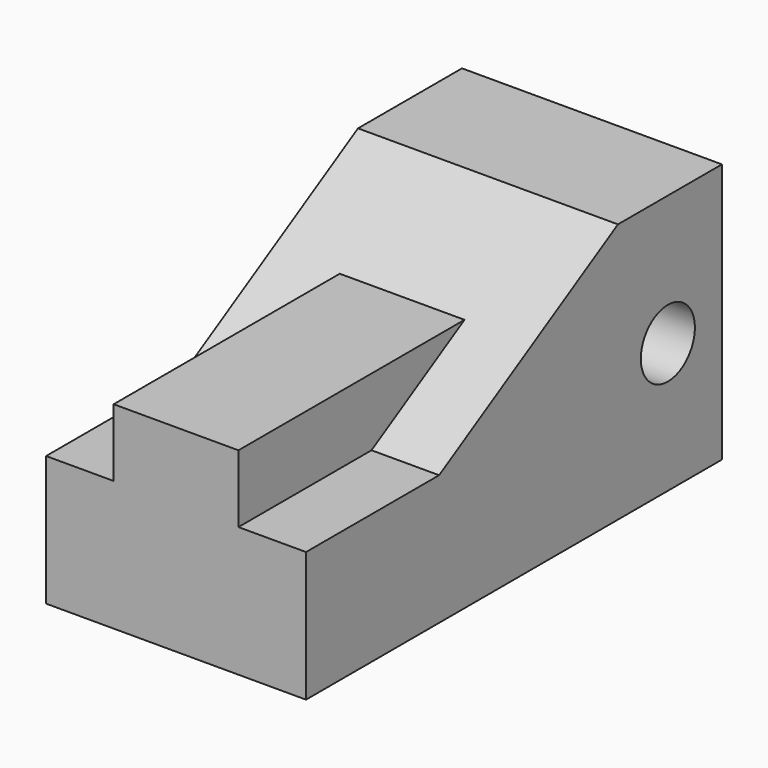
from build123d import *

# Parameters (mm, degrees)
F0_W     = 100
F0_H     = 50
F1_DEPTH = 50
F2_R     = 6.5
F3_DEPTH = 50.001
F4_DEPTH = 13
F7_DEPTH = 13
F9_DEPTH = 25


with BuildPart() as f1:
    # F0 (on Right) → F1 (new body)
    with BuildSketch(Plane.YZ):
        with Locations((50, 25)):
            Rectangle(F0_W, F0_H)
    extrude(amount=-F1_DEPTH)

    # F2 (on face) → F3 (cut, through all)
    with BuildSketch(Plane.YZ):
        with Locations((87, 25)):
            Circle(F2_R)
    extrude(amount=-F3_DEPTH, mode=Mode.SUBTRACT)

    # F2 (on face) → F4 (cut)
    with BuildSketch(Plane.YZ):
        Polygon((32, 25), (75, 50), (0, 50), (0, 25), align=None)
    extrude(amount=-F4_DEPTH, mode=Mode.SUBTRACT)

    # F6 (on face) → F7 (cut)
    with BuildSketch(Plane(origin=(-50, 0, 0), x_dir=(0, -1, 0), z_dir=(-1, 0, 0))):
        Polygon((-32, 25), (0, 25), (0, 50), (-75, 50), align=None)
    extrude(amount=-F7_DEPTH, mode=Mode.SUBTRACT)

    # F8 (on face) → F9 (cut)
    with BuildSketch(Plane(origin=(-37, 0, 0), x_dir=(0, -1, 0), z_dir=(-1, 0, 0))):
        Polygon((-54.36, 38), (0, 38), (0, 50), (-75, 50), align=None)
    extrude(amount=-F9_DEPTH, mode=Mode.SUBTRACT)


solid = f1.part
